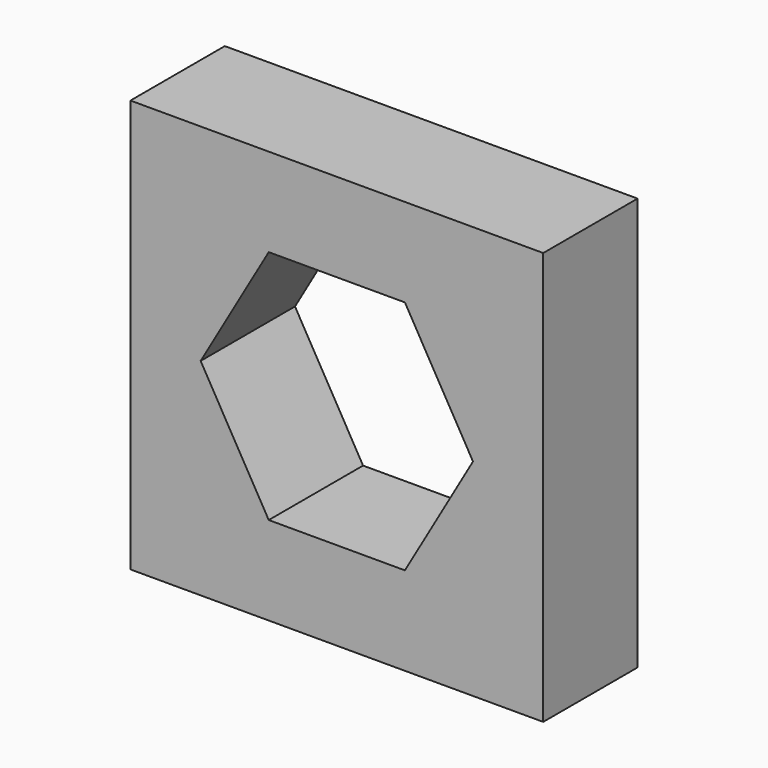
from build123d import *

# Parameters (mm, degrees)
F0_W     = 22.225
F0_H     = 22.225
F1_DEPTH = 6.35


with BuildPart() as f1:
    # F0 (on Front) → F1 (new body)
    with BuildSketch(Plane.XZ):
        Rectangle(F0_W, F0_H)
        Polygon((-7.332348, 0), (-3.666174, 6.35), (3.666174, 6.35), (7.332348, 0), (3.666174, -6.35), (-3.666174, -6.35), align=None, mode=Mode.SUBTRACT)
    extrude(amount=F1_DEPTH)


solid = f1.part
